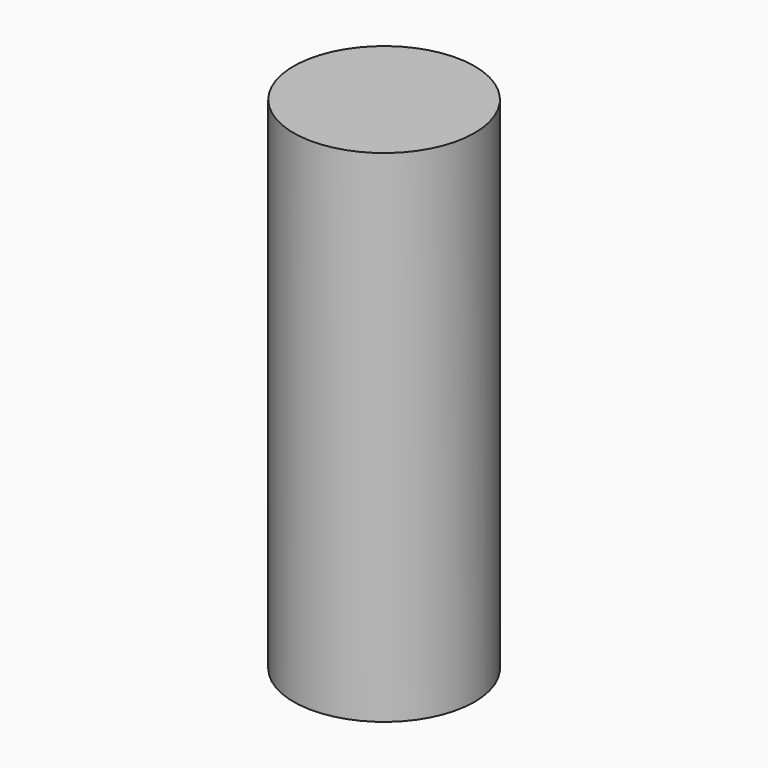
from build123d import *

# Parameters (mm, degrees)
F0_R      = 30.703588
F1_DEPTH  = 169.926
F1_FACE_R = 30.703588
F2_DEPTH  = 165.354


with BuildPart() as f1:
    # F0 (on Top) → F1 (new body)
    with BuildSketch(Plane.XY):
        Circle(F0_R)
    extrude(amount=F1_DEPTH)

    # F1_face (on face) → F2 (join)
    with BuildSketch(Plane(origin=(0, 0, 0), x_dir=(1, 0, 0), z_dir=(0, 0, -1))):
        Circle(F1_FACE_R)
    extrude(amount=-F2_DEPTH)


solid = f1.part
